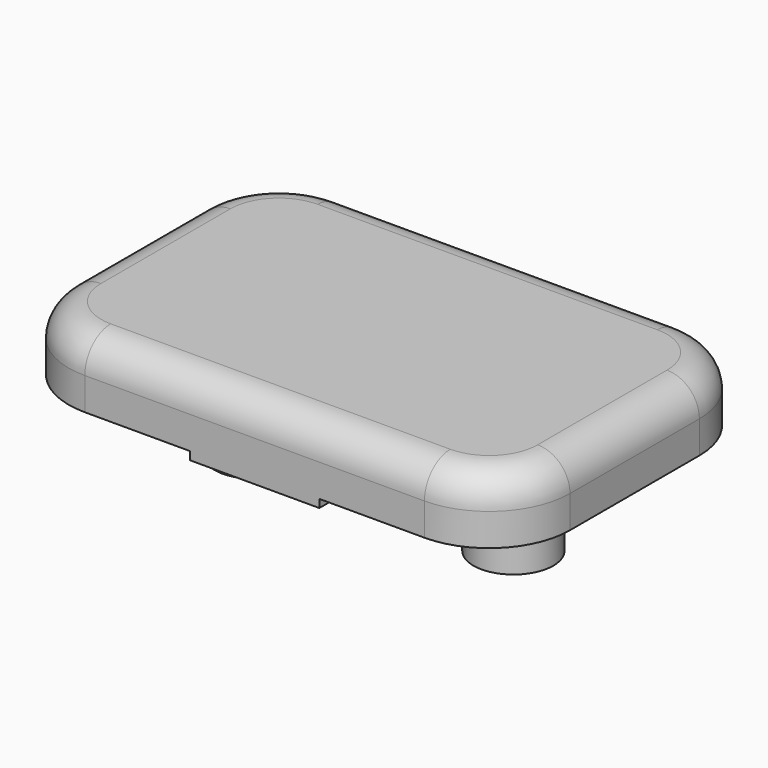
from build123d import *

# Parameters (mm, degrees)
SKETCH_W     = 15.5
SKETCH_H     = 10
PAD_DEPTH    = 2
SKETCH001_R  = 1.235
PAD001_DEPTH = 2.8
FILLET_R     = 2.5
FILLET001_R  = 1
SKETCH002_W  = 4
SKETCH002_H  = 10
PAD002_DEPTH = 0.25


with BuildPart() as part:
    # Sketch → Pad (new body)
    with BuildSketch(Plane.XY):
        Rectangle(SKETCH_W, SKETCH_H)
    extrude(amount=PAD_DEPTH)

    # Sketch001 (on Face5 of Pad) → Pad001 (join)
    with BuildSketch(Plane(origin=(0, 0, 0), x_dir=(1, 0, 0), z_dir=(0, 0, -1))):
        with Locations((-4, 0)):
            Circle(SKETCH001_R)
        with Locations((4, 0)):
            Circle(SKETCH001_R)
    extrude(amount=PAD001_DEPTH)

    # Fillet
    fillet_edges = [part.edges().sort_by_distance(p)[0] for p in [
        (7.75, 5, 1),
        (7.75, -5, 1),
        (-7.75, -5, 1),
        (-7.75, 5, 1),
    ]]
    fillet(fillet_edges, radius=FILLET_R)

    # Fillet001
    fillet001_edges = [part.edges().sort_by_distance(p)[0] for p in [
        (0, -5, 2),
        (7.75, 0, 2),
        (0, 5, 2),
        (-7.75, 0, 2),
    ]]
    fillet(fillet001_edges, radius=FILLET001_R)

    # Sketch002 (on Face4 of Fillet001) → Pad002 (join)
    with BuildSketch(Plane(origin=(0, 0, 0), x_dir=(1, 0, 0), z_dir=(0, 0, -1))):
        Rectangle(SKETCH002_W, SKETCH002_H)
    extrude(amount=PAD002_DEPTH)


solid = part.part
